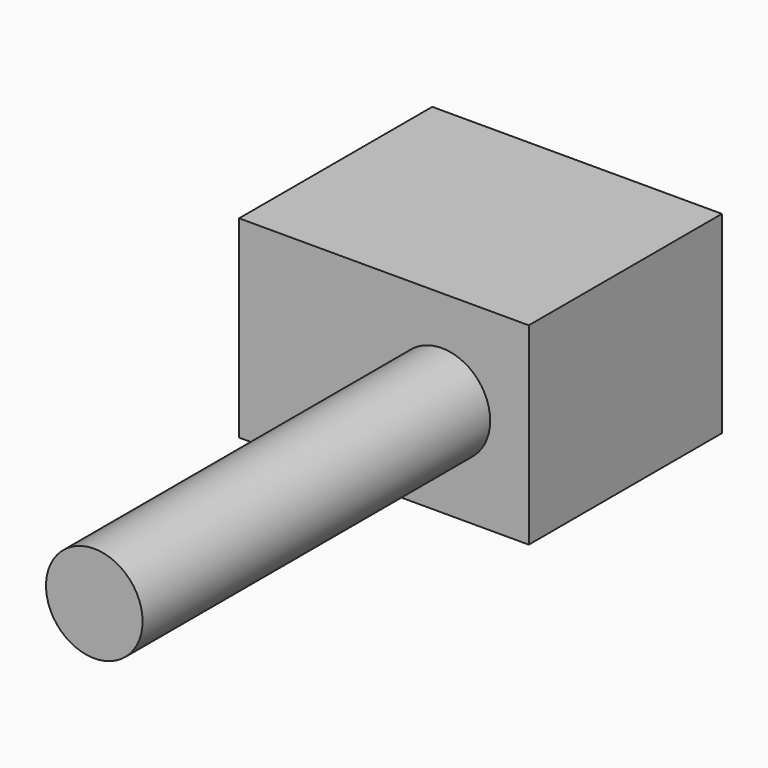
from build123d import *

# Parameters (mm, degrees)
F0_W     = 60
F0_H     = 40
F1_DEPTH = 50
F2_R     = 10
F3_DEPTH = 90


with BuildPart() as f1:
    # F0 (on Front) → F1 (new body)
    with BuildSketch(Plane.XZ):
        Rectangle(F0_W, F0_H)
    extrude(amount=F1_DEPTH)


with BuildPart() as f3:
    # F2 (on face) → F3 (new body)
    with BuildSketch(Plane.XZ.offset(50)):
        with Locations((12, 0)):
            Circle(F2_R)
    extrude(amount=F3_DEPTH)


solid = Compound([f1.part, f3.part])
